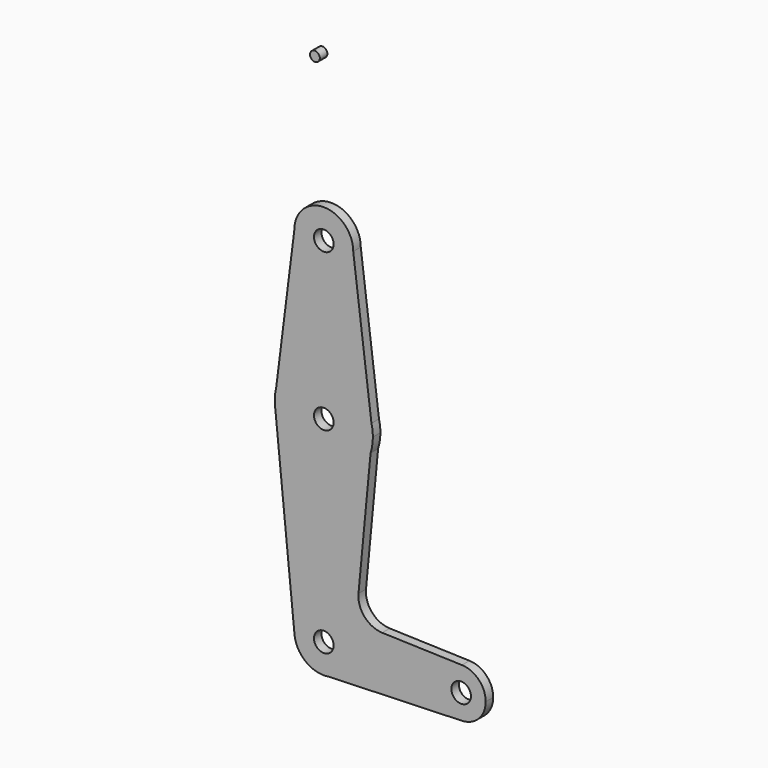
from build123d import *

# Parameters (mm, degrees)
F0_R     = 3.175
F0_R_2   = 1.5875
F1_DEPTH = 3.048


with BuildPart() as f1:
    # F0 (on Front) → F1 (new body)
    with BuildSketch(Plane.XZ):
        with BuildLine():
            ThreePointArc((1.606988, -9.388462), (7.281215, -6.140809), (9.525, 0))
            ThreePointArc((9.525, 0), (-0.473383, 9.513229), (-9.477947, -0.945597))
            ThreePointArc((-9.477947, -0.945597), (-5.771351, -7.577409), (1.606988, -9.388462))
        make_face()
        Circle(F0_R, mode=Mode.SUBTRACT)
        with BuildLine():
            ThreePointArc((-9.477947, -0.945597), (-0.473383, 9.513229), (9.525, 0))
            ThreePointArc((9.525, 0), (7.281215, -6.140809), (1.606988, -9.388462))
            Line((1.606988, -9.388462), (44.717828, -7.93298))
            ThreePointArc((44.717828, -7.93298), (36.512504, -0.007949), (44.701939, 7.933501))
            Line((44.701939, 7.933501), (18.88476, 8.753359))
            ThreePointArc((18.88476, 8.753359), (13.171931, 11.44385), (11.222405, 17.450054))
            Line((11.222405, 17.450054), (15.134703, 58.708716))
            ThreePointArc((15.134703, 58.708716), (-1.039003, 47.659037), (-15.630866, 60.726619))
            Line((-15.630866, 60.726619), (-9.477947, -0.945597))
        make_face()
        with BuildLine():
            ThreePointArc((-15.420428, 67.27174), (-15.866801, 64.010148), (-15.630866, 60.726619))
            ThreePointArc((-15.630866, 60.726619), (-1.039003, 47.659037), (15.134703, 58.708716))
            ThreePointArc((15.134703, 58.708716), (15.688834, 61.075931), (15.875, 63.5))
            ThreePointArc((15.875, 63.5), (15.760947, 65.399517), (15.420428, 67.27174))
            ThreePointArc((15.420428, 67.27174), (0, 79.375), (-15.420428, 67.27174))
        make_face()
        with Locations((0, 63.5)):
            Circle(F0_R, mode=Mode.SUBTRACT)
        with BuildLine():
            ThreePointArc((44.701939, 7.933501), (36.512504, -0.007949), (44.717828, -7.93298))
            ThreePointArc((44.717828, -7.93298), (50.156566, -5.517156), (52.3875, 0))
            ThreePointArc((52.3875, 0), (50.151038, 5.522868), (44.701939, 7.933501))
        make_face()
        with Locations((44.45, 0)):
            Circle(F0_R, mode=Mode.SUBTRACT)
        with BuildLine():
            Line((-9.525, 114.3), (-15.420428, 67.27174))
            ThreePointArc((-15.420428, 67.27174), (0, 79.375), (15.420428, 67.27174))
            Line((15.420428, 67.27174), (9.525, 114.3))
            ThreePointArc((9.525, 114.3), (0, 104.775), (-9.525, 114.3))
        make_face()
        with BuildLine():
            ThreePointArc((9.525, 114.3), (0, 123.825), (-9.525, 114.3))
            ThreePointArc((-9.525, 114.3), (0, 104.775), (9.525, 114.3))
        make_face()
        with Locations((0, 114.3)):
            Circle(F0_R, mode=Mode.SUBTRACT)
        with Locations((-2.873619, 165.854856)):
            Circle(F0_R_2)
    extrude(amount=F1_DEPTH)


solid = f1.part
